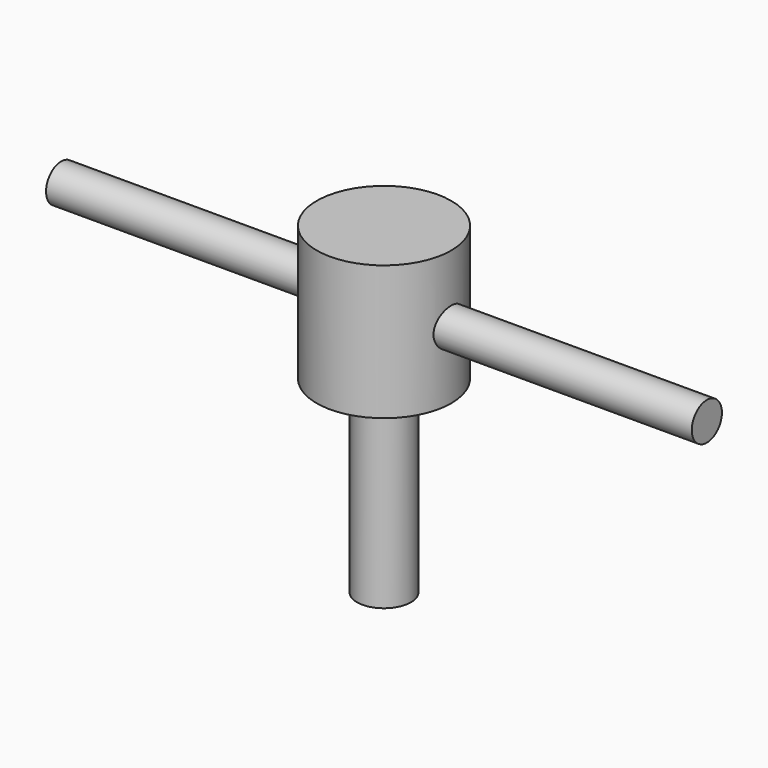
from build123d import *

# Parameters (mm, degrees)
F0_R     = 15.875
F1_DEPTH = 76.2
F2_R     = 15.875
F2_R_2   = 6.35
F3_DEPTH = 44.45
F4_R     = 4.445
F5_DEPTH = 76.2


with BuildPart() as f1:
    # F0 (on Top) → F1 (new body)
    with BuildSketch(Plane.XY):
        Circle(F0_R)
    extrude(amount=F1_DEPTH)

    # F2 (on face) → F3 (cut)
    with BuildSketch(Plane(origin=(0, 0, 0), x_dir=(1, 0, 0), z_dir=(0, 0, -1))):
        Circle(F2_R)
        Circle(F2_R_2, mode=Mode.SUBTRACT)
    extrude(amount=-F3_DEPTH, mode=Mode.SUBTRACT)

    # F4 (on Right) → F5 (join, symmetric)
    with BuildSketch(Plane.YZ):
        with Locations((0, 60.325)):
            Circle(F4_R)
    extrude(amount=F5_DEPTH, both=True)


solid = f1.part
